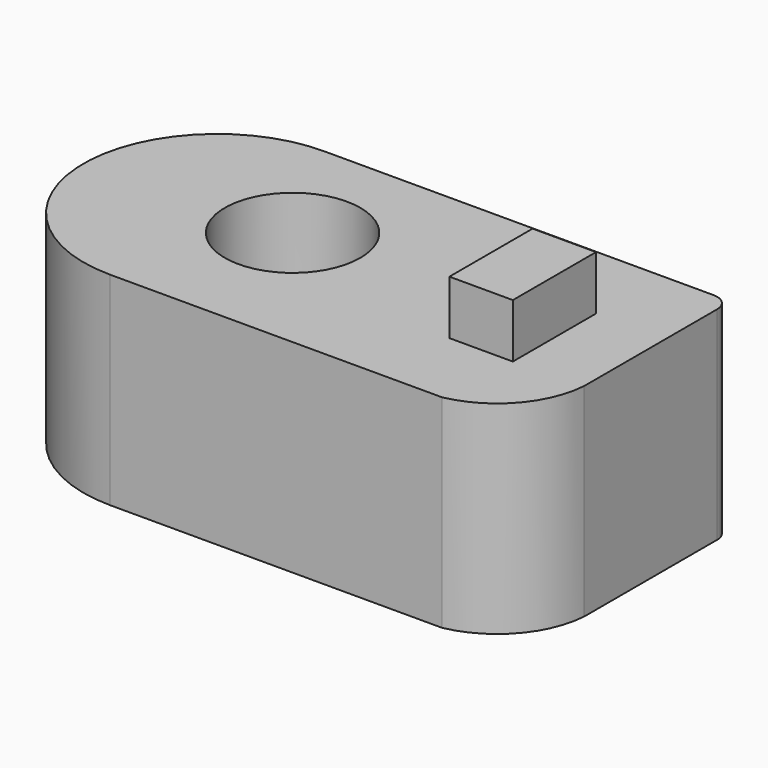
from build123d import *

# Parameters (mm, degrees)
F0_R     = 20.354373
F1_DEPTH = 60.96
F2_R     = 5.08
F3_W     = 19.056432
F3_H     = 31.234418
F4_DEPTH = 16.256


with BuildPart() as f1:
    # F0 (on Top) → F1 (new body)
    with BuildSketch(Plane.XY):
        with BuildLine():
            Line((61.058927, -14.842805), (61.058927, 40.159032))
            Line((61.058927, 40.159032), (-61.058927, 40.159032))
            ThreePointArc((-61.058927, 40.159032), (-101.217959, 0), (-61.058927, -40.159032))
            Line((-61.058927, -40.159032), (38.626283, -40.159032))
            ThreePointArc((38.626283, -40.159032), (54.111335, -31.283429), (61.058927, -14.842805))
        make_face()
        with Locations((-40.952704, 3.168637)):
            Circle(F0_R, mode=Mode.SUBTRACT)
    extrude(amount=F1_DEPTH)

    # F2
    f2_edges = [f1.edges().sort_by_distance(p)[0] for p in [
        (61.058927, 40.159032, 30.48),
    ]]
    fillet(f2_edges, radius=F2_R)

    # F3 (on face) → F4 (join)
    with BuildSketch(Plane.XY.offset(60.96)):
        with Locations((30.708643, 0)):
            Rectangle(F3_W, F3_H)
    extrude(amount=F4_DEPTH)


solid = f1.part
